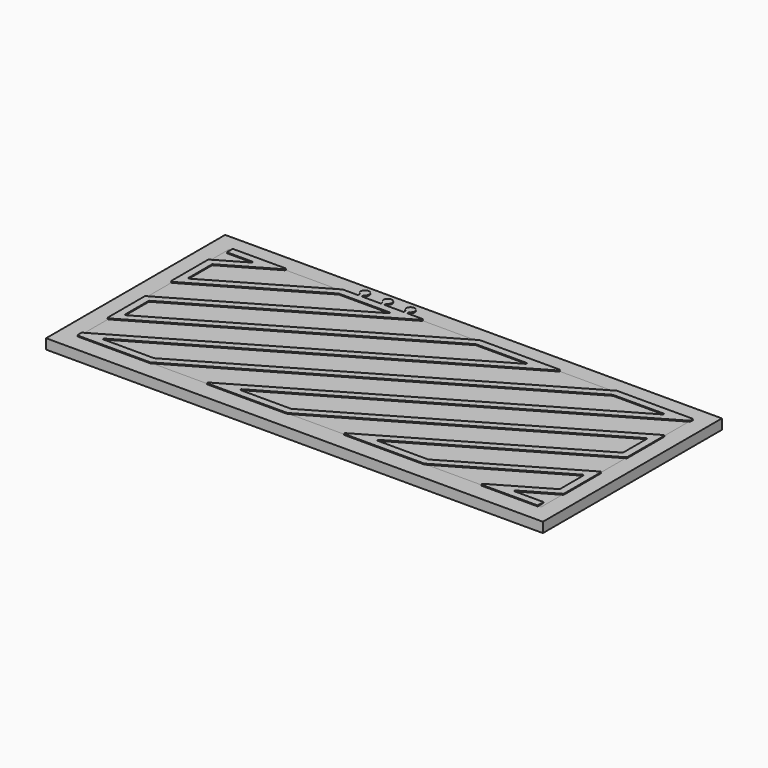
from build123d import *

# Parameters (mm, degrees)
F5_W      = 62.8235205077
F5_H      = 37.2700802982
F6_DEPTH  = 25
F8_W      = 50.6
F8_H      = 20.6
F9_DEPTH  = 1.1
F10_R     = 0.1
F12_DEPTH = 1.2
F13_W     = 54.367583245
F13_H     = 24.4925916195
F13_W_2   = 50.6
F13_H_2   = 20.6
F14_DEPTH = 1.1


with BuildPart() as f4:
    # F4: sweep along a path in F1
    with BuildLine(Plane.XY) as f4_path:
        Line((0, 20), (4.6410161514, 20))
        Line((4.6410161514, 20), (0, 17.3205080757))
        Line((0, 17.3205080757), (0, 12.9903810568))
        Line((0, 12.9903810568), (12.1410161514, 20))
        Line((12.1410161514, 20), (19.6410161514, 20))
        Line((19.6410161514, 20), (0, 8.6602540378))
        Line((0, 8.6602540378), (0, 4.3301270189))
        Line((0, 4.3301270189), (27.1410161514, 20))
        Line((27.1410161514, 20), (34.6410161514, 20))
        Line((34.6410161514, 20), (0, 0))
        Line((0, 0), (7.5, 0))
        Line((7.5, 0), (42.1410161514, 20))
        Line((42.1410161514, 20), (49.6410161514, 20))
        Line((49.6410161514, 20), (15, 0))
        Line((15, 0), (22.5, 0))
        Line((22.5, 0), (50, 15.8771324027))
        Line((50, 15.8771324027), (50, 11.5470053838))
        Line((50, 11.5470053838), (30, 0))
        Line((30, 0), (37.5, 0))
        Line((37.5, 0), (50, 7.2168783649))
        Line((50, 7.2168783649), (50, 2.8867513459))
        Line((50, 2.8867513459), (45, 0))
        Line((45, 0), (50, 0))
    # F3 (on line) → F4 (sweep)
    with BuildSketch(Plane.YZ):
        Polygon((19.6, 0), (20, 0), (20.4, 0), (20.4, 1.2), (20, 1.2), (19.6, 1.2), align=None)
    sweep(path=f4_path.line, transition=Transition.RIGHT)


with BuildPart() as f6:
    # F5 (on Top) → F6 (new body)
    with BuildSketch(Plane.XY):
        with Locations((25.02031927, 9.5404535532)):
            Rectangle(F5_W, F5_H)
        Polygon((-0.4, 3.6373066959), (-0.4, 8.8911941455), (-0.4, 20.4), (0, 20.4), (6.1338364744, 20.4), (50.4, 20.4), (50.4, 16.5699527257), (50.4, 11.3160652761), (50.4, -0.4), (37.607179677, -0.4), (28.507179677, -0.4), (-0.4, -0.4), align=None, mode=Mode.SUBTRACT)
    extrude(amount=F6_DEPTH)


with BuildPart() as f4_1:
    add(f4.part)

    # F7: cut F6
    add(f6.part, mode=Mode.SUBTRACT)

    # F10
    f10_edges = [f4_1.edges().sort_by_distance(p)[0] for p in [
        (-0.4, 17.551448, 0.6),
        (3.148196, 19.6, 0.6),
        (6.133836, 20.4, 0.6),
        (0.4, 17.089568, 0.6),
        (0.4, 13.683201, 0.6),
        (-0.4, 12.297561, 0.6),
        (12.248196, 19.6, 0.6),
        (12.033836, 20.4, 0.6),
        (18.148196, 19.6, 0.6),
        (21.133836, 20.4, 0.6),
        (27.033836, 20.4, 0.6),
        (-0.4, 8.891194, 0.6),
        (0.4, 8.429314, 0.6),
        (0.4, 5.022947, 0.6),
        (-0.4, 3.637307, 0.6),
        (27.248196, 19.6, 0.6),
        (33.148196, 19.6, 0.6),
        (36.133836, 20.4, 0.6),
        (42.033836, 20.4, 0.6),
        (-0.4, 0.23094, 0.6),
        (1.49282, 0.4, 0.6),
        (-0.4, -0.4, 0.6),
        (7.39282, 0.4, 0.6),
        (7.60718, -0.4, 0.6),
        (42.248196, 19.6, 0.6),
        (48.148196, 19.6, 0.6),
        (50.4, 20.4, 0.6),
        (50.4, 19.976319, 0.6),
        (50.4, 16.569953, 0.6),
        (49.6, 15.184312, 0.6),
        (49.6, 11.777945, 0.6),
        (50.4, 11.316065, 0.6),
        (28.50718, -0.4, 0.6),
        (31.49282, 0.4, 0.6),
        (22.60718, -0.4, 0.6),
        (13.50718, -0.4, 0.6),
        (16.49282, 0.4, 0.6),
        (37.39282, 0.4, 0.6),
        (22.39282, 0.4, 0.6),
        (50.4, 7.909699, 0.6),
        (49.6, 6.524058, 0.6),
        (37.60718, -0.4, 0.6),
        (43.50718, -0.4, 0.6),
        (50.4, 2.655811, 0.6),
        (46.49282, 0.4, 0.6),
        (49.6, 3.117691, 0.6),
    ]]
    fillet(f10_edges, radius=F10_R)

    # F11 (on Top) → F12 (join, through all)
    with BuildSketch(Plane.XY):
        with BuildLine():
            Line((16.5969616764, 20.4), (16.5969616764, 20.6616236331))
            ThreePointArc((16.5969616764, 20.6616236331), (16.4205801226, 21.5640753587), (16.2062010934, 20.6698879056))
            Line((16.2062010934, 20.6698879056), (16.2062010934, 20.4))
            Line((16.2062010934, 20.4), (16.5969616764, 20.4))
        make_face()
        with BuildLine():
            Line((19.0969616764, 20.4), (19.0969616764, 20.6616236331))
            ThreePointArc((19.0969616764, 20.6616236331), (18.9205801226, 21.5640753587), (18.7062010934, 20.6698879056))
            Line((18.7062010934, 20.6698879056), (18.7062010934, 20.4))
            Line((18.7062010934, 20.4), (19.0969616764, 20.4))
        make_face()
        with BuildLine():
            Line((14.0969616764, 20.4), (14.0969616764, 20.6616236331))
            ThreePointArc((14.0969616764, 20.6616236331), (13.9205801226, 21.5640753587), (13.7062010934, 20.6698879056))
            Line((13.7062010934, 20.6698879056), (13.7062010934, 20.4))
            Line((13.7062010934, 20.4), (14.0969616764, 20.4))
        make_face()
    extrude(amount=F12_DEPTH)


with BuildPart() as f9:
    # F8 (on Top) → F9 (new body)
    with BuildSketch(Plane.XY):
        with Locations((25, 10)):
            Rectangle(F8_W, F8_H)
    extrude(amount=F9_DEPTH)


with BuildPart() as f14:
    # F13 (on Top) → F14 (new body, through all)
    with BuildSketch(Plane.XY):
        with Locations((24.9365065247, 9.9155176431)):
            Rectangle(F13_W, F13_H)
        with Locations((25, 10)):
            Rectangle(F13_W_2, F13_H_2, mode=Mode.SUBTRACT)
    extrude(amount=F14_DEPTH)


solid = Compound([f4_1.part, f9.part, f14.part])
